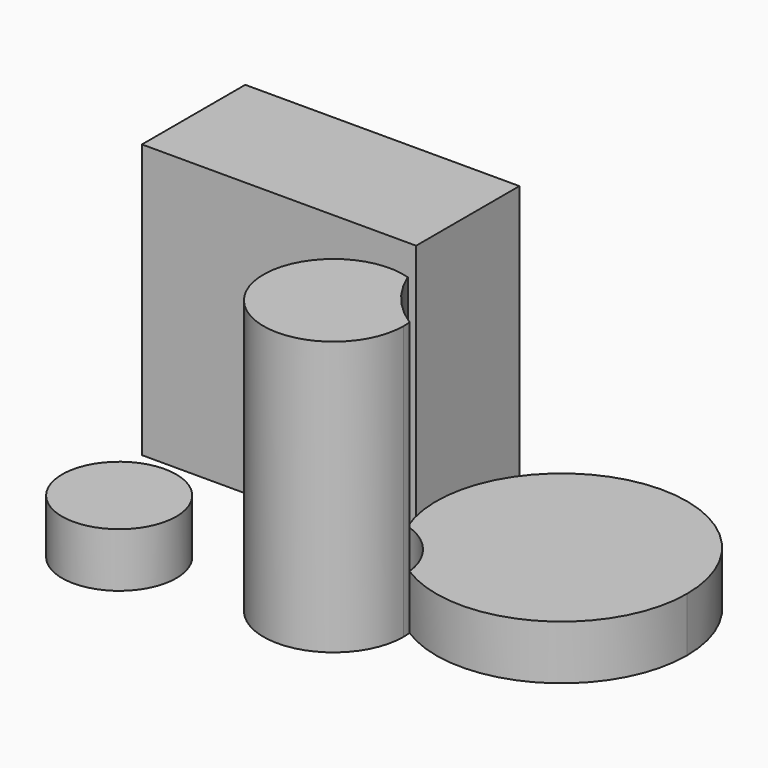
from build123d import *

# Parameters (mm, degrees)
F0_R     = 26.717249
F1_DEPTH = 25.4
F0_W     = 128.298186
F0_H     = 60.412251
F2_DEPTH = 128.016


with BuildPart() as f1:
    # F0 (on Top) → F1 (new body)
    with BuildSketch(Plane.XY):
        with Locations((-43.907873, -42.039458)):
            Circle(F0_R)
        with BuildLine():
            ThreePointArc((53.66845, 4.77607), (69.095189, -5.561378), (76.416061, -22.627484))
            ThreePointArc((76.416061, -22.627484), (136.216363, -24.691277), (166.728207, 26.780684))
            ThreePointArc((166.728207, 26.780684), (96.848216, 84.37129), (53.66845, 4.77607))
        make_face()
    extrude(amount=F1_DEPTH)


with BuildPart() as f2:
    # F0 (on Top) → F2 (new body)
    with BuildSketch(Plane.XY):
        with Locations((-23.666654, 56.364003)):
            Rectangle(F0_W, F0_H)
        with BuildLine():
            ThreePointArc((53.66845, 4.77607), (17.535095, -45.860459), (76.642286, -26.46929))
            ThreePointArc((76.642286, -26.46929), (76.585681, -24.54506), (76.416061, -22.627484))
            ThreePointArc((76.416061, -22.627484), (62.912708, -10.693438), (53.66845, 4.77607))
        make_face()
    extrude(amount=F2_DEPTH)


solid = Compound([f1.part, f2.part])
